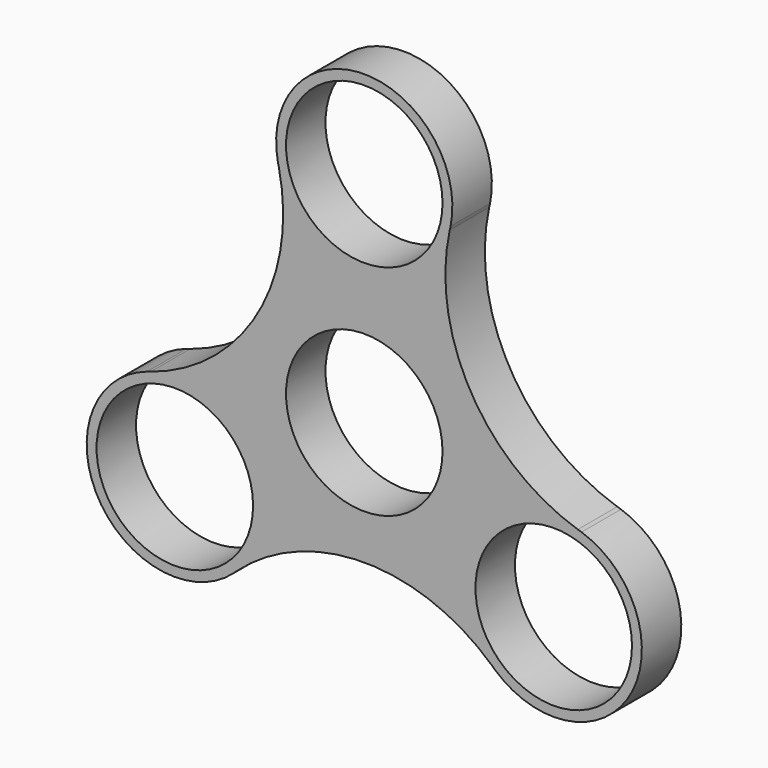
from build123d import *

# Parameters (mm, degrees)
F0_R     = 11.1
F1_DEPTH = 7


with BuildPart() as f1:
    # F0 (on Front) → F1 (new body)
    with BuildSketch(Plane.XZ):
        with BuildLine():
            ThreePointArc((12.243819, 28.512417), (12.181452, 28.245791), (12.121791, 27.978545))
            ThreePointArc((12.121791, 27.978545), (12.185729, 28.244813), (12.243819, 28.512417))
        make_face()
        with BuildLine():
            ThreePointArc((30.291026, -3.491493), (15.119941, 8.729502), (12.121791, 27.978545))
            ThreePointArc((12.121791, 27.978545), (12.181452, 28.245791), (12.243819, 28.512417))
            ThreePointArc((12.243819, 28.512417), (0, 43.530132), (-12.243819, 28.512417))
            ThreePointArc((-12.243819, 28.512417), (-12.181452, 28.245791), (-12.121791, 27.978545))
            ThreePointArc((-12.121791, 27.978545), (-15.119941, 8.729502), (-30.291026, -3.491493))
            ThreePointArc((-30.291026, -3.491493), (-30.552298, -3.573449), (-30.814388, -3.65275))
            ThreePointArc((-30.814388, -3.65275), (-37.6982, -21.765066), (-18.570568, -24.859667))
            ThreePointArc((-18.570568, -24.859667), (-18.370846, -24.672342), (-18.169235, -24.487051))
            ThreePointArc((-18.169235, -24.487051), (0, -17.459004), (18.169235, -24.487051))
            ThreePointArc((18.169235, -24.487051), (18.370846, -24.672342), (18.570568, -24.859667))
            ThreePointArc((18.570568, -24.859667), (37.6982, -21.765066), (30.814388, -3.65275))
            ThreePointArc((30.814388, -3.65275), (30.552298, -3.573449), (30.291026, -3.491493))
        make_face()
        with Locations((-26.872882, -15.515066)):
            Circle(F0_R, mode=Mode.SUBTRACT)
        with Locations((26.872882, -15.515066)):
            Circle(F0_R, mode=Mode.SUBTRACT)
        Circle(F0_R, mode=Mode.SUBTRACT)
        with Locations((0, 31.030132)):
            Circle(F0_R, mode=Mode.SUBTRACT)
        with BuildLine():
            ThreePointArc((30.814388, -3.65275), (30.55359, -3.569255), (30.291026, -3.491493))
            ThreePointArc((30.291026, -3.491493), (30.552298, -3.573449), (30.814388, -3.65275))
        make_face()
        with BuildLine():
            ThreePointArc((-12.121791, 27.978545), (-12.181452, 28.245791), (-12.243819, 28.512417))
            ThreePointArc((-12.243819, 28.512417), (-12.185729, 28.244813), (-12.121791, 27.978545))
        make_face()
        with BuildLine():
            ThreePointArc((18.169235, -24.487051), (18.367861, -24.675558), (18.570568, -24.859667))
            ThreePointArc((18.570568, -24.859667), (18.370846, -24.672342), (18.169235, -24.487051))
        make_face()
        with BuildLine():
            ThreePointArc((-30.814388, -3.65275), (-30.552298, -3.573449), (-30.291026, -3.491493))
            ThreePointArc((-30.291026, -3.491493), (-30.55359, -3.569255), (-30.814388, -3.65275))
        make_face()
        with BuildLine():
            ThreePointArc((-18.570568, -24.859667), (-18.367861, -24.675558), (-18.169235, -24.487051))
            ThreePointArc((-18.169235, -24.487051), (-18.370846, -24.672342), (-18.570568, -24.859667))
        make_face()
    extrude(amount=F1_DEPTH)


solid = f1.part
